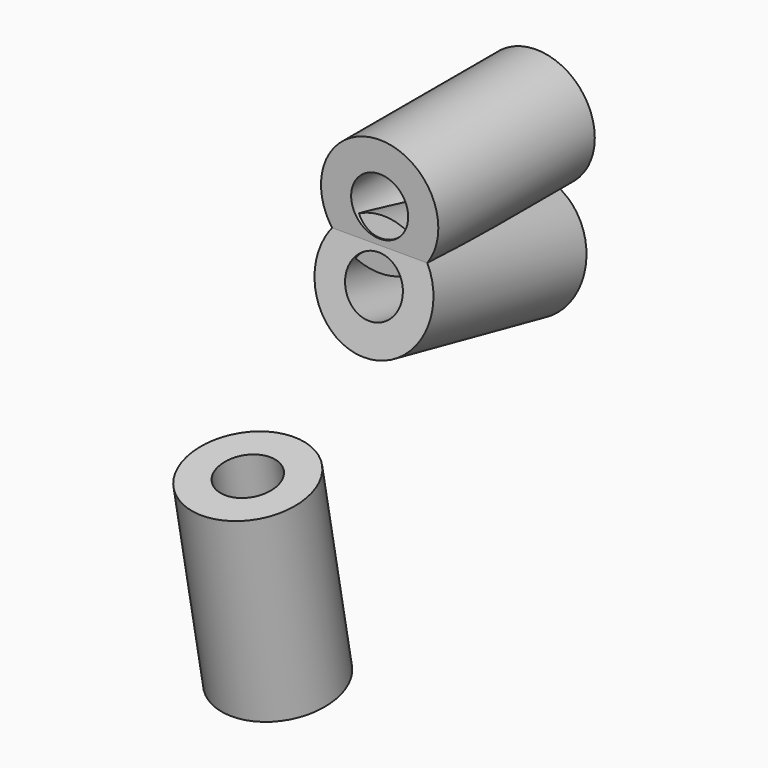
from build123d import *

# Parameters (mm, degrees)
F0_R     = 11.43
F0_R_2   = 5.55625
F1_DEPTH = 38.1
F3_COUNT = 2
F3_ANGLE = 12
F4_COUNT = 2
F4_ANGLE = 67


with BuildPart() as f1:
    # F0 (on Front) → F1 (new body)
    with BuildSketch(Plane.XZ):
        Circle(F0_R)
        Circle(F0_R_2, mode=Mode.SUBTRACT)
    extrude(amount=F1_DEPTH)


with BuildPart() as f3_1:
    # F3: instance of F1
    add(f1.part.rotate(Axis((-2.530354, -101.6, 0), (-1, 0, 0)), 1 * F3_ANGLE / (F3_COUNT - 1)))


with BuildPart() as f4_1:
    # F4: instance of F3_1
    add(f3_1.part.rotate(Axis((-4.272977, -69.971472, 0), (-1, 0, 0)), 1 * F4_ANGLE / (F4_COUNT - 1)))


solid = Compound([f1.part, f3_1.part, f4_1.part])
